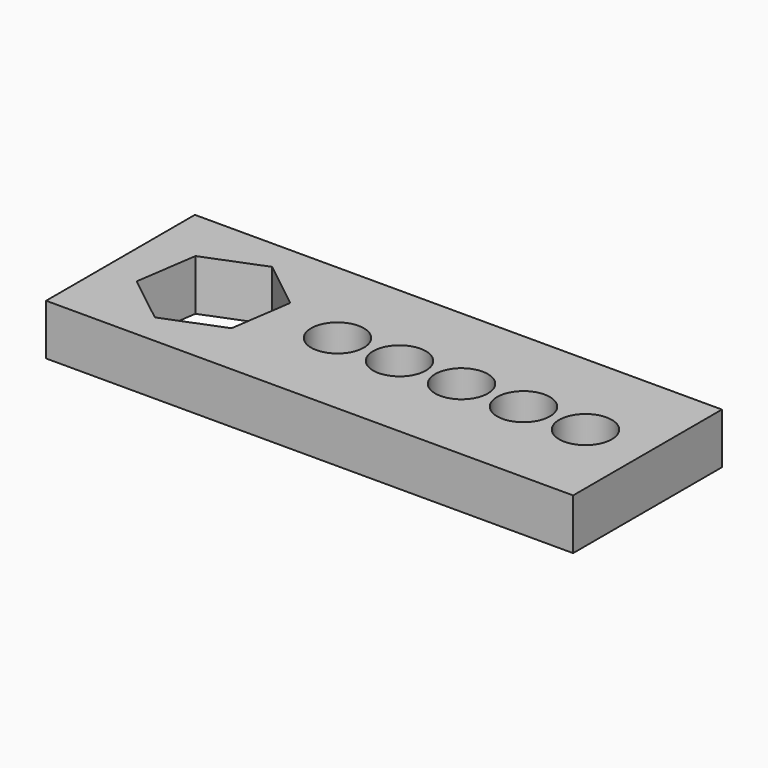
from build123d import *

# Parameters (mm, degrees)
F0_W     = 85
F0_H     = 30
F0_R     = 4.25
F1_DEPTH = 8.2


with BuildPart() as f1:
    # F0 (on Top) → F1 (new body)
    with BuildSketch(Plane.XY):
        with Locations((1.923828, 2.146574)):
            Rectangle(F0_W, F0_H)
        with Locations((-5.576172, 2.146574)):
            Circle(F0_R, mode=Mode.SUBTRACT)
        with Locations((4.423828, 2.146574)):
            Circle(F0_R, mode=Mode.SUBTRACT)
        with Locations((14.423828, 2.146574)):
            Circle(F0_R, mode=Mode.SUBTRACT)
        with Locations((24.423828, 2.146574)):
            Circle(F0_R, mode=Mode.SUBTRACT)
        with Locations((34.423828, 2.146574)):
            Circle(F0_R, mode=Mode.SUBTRACT)
        Polygon((-34.96525, -1.585525), (-33.502803, 8.411704), (-24.113726, 12.143802), (-16.187095, 5.878672), (-17.649542, -4.118557), (-27.038619, -7.850655), align=None, mode=Mode.SUBTRACT)
    extrude(amount=F1_DEPTH)


solid = f1.part
